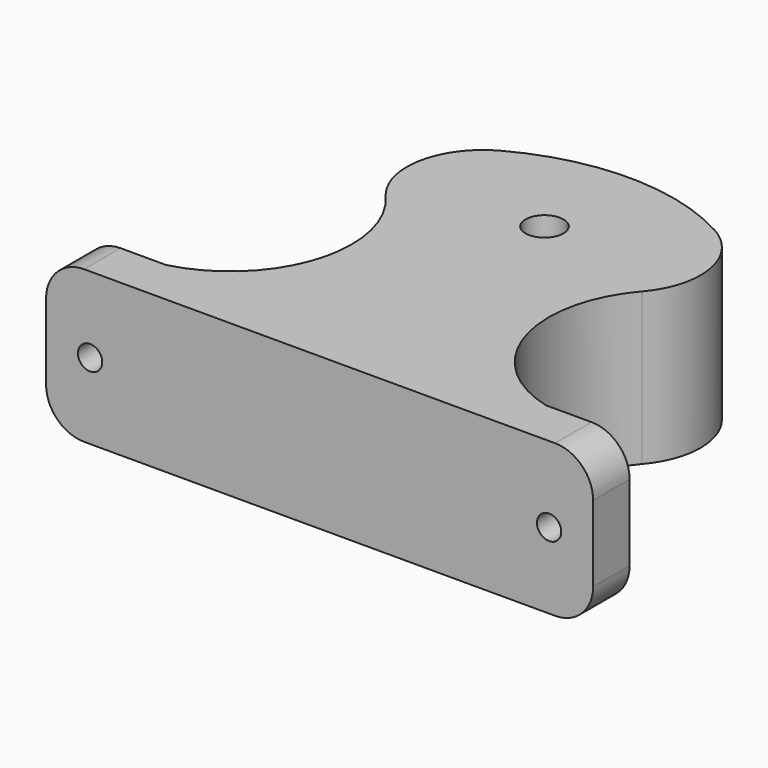
from build123d import *

# Parameters (mm, degrees)
F1_DEPTH = 20
F2_R     = 10
F3_R     = 1.599869
F4_DEPTH = 25
F5_R     = 5
F6_DEPTH = 3
F3_R_2   = 2.6
F7_DEPTH = 1.2


with BuildPart() as f1:
    # F0 (on Top) → F1 (new body)
    with BuildSketch(Plane.XY):
        with BuildLine():
            Line((25, 15.5), (3.6, 15.5))
            ThreePointArc((3.6, 15.5), (0, 11.9), (-3.6, 15.5))
            Line((-3.6, 15.5), (-25, 15.5))
            ThreePointArc((-25, 15.5), (-12.968627, 0), (-25, -15.5))
            Line((-25, -15.5), (25, -15.5))
            ThreePointArc((25, -15.5), (12.968627, 0), (25, 15.5))
        make_face()
        with BuildLine():
            ThreePointArc((-2.5, 15.5), (0, 18), (2.5, 15.5))
            Line((2.5, 15.5), (3.6, 15.5))
            ThreePointArc((3.6, 15.5), (0, 19.1), (-3.6, 15.5))
            Line((-3.6, 15.5), (-2.5, 15.5))
        make_face()
        with BuildLine():
            ThreePointArc((-20.07486, -21.5), (-22.736221, -18.663179), (-25, -15.5))
            Line((-25, -15.5), (-36, -15.5))
            Line((-36, -15.5), (-36, -21.5))
            Line((-36, -21.5), (-20.07486, -21.5))
        make_face()
        with BuildLine():
            ThreePointArc((20.07486, -21.5), (22.736221, -18.663179), (25, -15.5))
            Line((25, -15.5), (-25, -15.5))
            ThreePointArc((-25, -15.5), (-22.736221, -18.663179), (-20.07486, -21.5))
            Line((-20.07486, -21.5), (20.07486, -21.5))
        make_face()
        with BuildLine():
            Line((36, -15.5), (25, -15.5))
            ThreePointArc((25, -15.5), (22.736221, -18.663179), (20.07486, -21.5))
            Line((20.07486, -21.5), (36, -21.5))
            Line((36, -21.5), (36, -15.5))
        make_face()
        with BuildLine():
            Line((25, 15.5), (3.6, 15.5))
            ThreePointArc((3.6, 15.5), (0, 11.9), (-3.6, 15.5))
            Line((-3.6, 15.5), (-25, 15.5))
            ThreePointArc((-25, 15.5), (-12.968627, 0), (-25, -15.5))
            Line((-25, -15.5), (25, -15.5))
            ThreePointArc((25, -15.5), (12.968627, 0), (25, 15.5))
        make_face()
        with BuildLine():
            ThreePointArc((-3.6, 15.5), (0, 19.1), (3.6, 15.5))
            Line((3.6, 15.5), (25, 15.5))
            ThreePointArc((25, 15.5), (0, 29.415132), (-25, 15.5))
            Line((-25, 15.5), (-3.6, 15.5))
        make_face()
        with BuildLine():
            Line((3.6, 15.5), (2.5, 15.5))
            ThreePointArc((2.5, 15.5), (0, 13), (-2.5, 15.5))
            Line((-2.5, 15.5), (-3.6, 15.5))
            ThreePointArc((-3.6, 15.5), (0, 11.9), (3.6, 15.5))
        make_face()
    extrude(amount=F1_DEPTH)

    # F2
    f2_edges = [f1.edges().sort_by_distance(p)[0] for p in [
        (25, 15.5, 10),
        (-25, 15.5, 10),
    ]]
    fillet(f2_edges, radius=F2_R)

    # F3 (on face) → F4 (cut)
    with BuildSketch(Plane(origin=(0, -15.5, 0), x_dir=(-1, 0, 0), z_dir=(0, 1, 0))):
        with Locations((30.207418, 10)):
            Circle(F3_R)
        with Locations((-30.207418, 10)):
            Circle(F3_R)
    extrude(amount=-F4_DEPTH, mode=Mode.SUBTRACT)

    # F5
    f5_edges = [f1.edges().sort_by_distance(p)[0] for p in [
        (-36, -18.5, 20),
        (36, -18.5, 20),
        (36, -18.5, 0),
        (-36, -18.5, 0),
    ]]
    fillet(f5_edges, radius=F5_R)

    # F0 (on Top) → F6 (cut)
    with BuildSketch(Plane.XY):
        with BuildLine():
            ThreePointArc((-2.5, 15.5), (0, 18), (2.5, 15.5))
            Line((2.5, 15.5), (3.6, 15.5))
            ThreePointArc((3.6, 15.5), (0, 19.1), (-3.6, 15.5))
            Line((-3.6, 15.5), (-2.5, 15.5))
        make_face()
        with BuildLine():
            Line((3.6, 15.5), (2.5, 15.5))
            ThreePointArc((2.5, 15.5), (0, 13), (-2.5, 15.5))
            Line((-2.5, 15.5), (-3.6, 15.5))
            ThreePointArc((-3.6, 15.5), (0, 11.9), (3.6, 15.5))
        make_face()
    extrude(amount=F6_DEPTH, mode=Mode.SUBTRACT)

    # F3 (on face) → F7 (cut)
    with BuildSketch(Plane(origin=(0, -15.5, 0), x_dir=(-1, 0, 0), z_dir=(0, 1, 0))):
        with Locations((-30.207418, 10)):
            Circle(F3_R_2)
        with Locations((-30.207418, 10)):
            Circle(F3_R, mode=Mode.SUBTRACT)
        with Locations((30.207418, 10)):
            Circle(F3_R_2)
        with Locations((30.207418, 10)):
            Circle(F3_R, mode=Mode.SUBTRACT)
    extrude(amount=-F7_DEPTH, mode=Mode.SUBTRACT)


solid = f1.part
